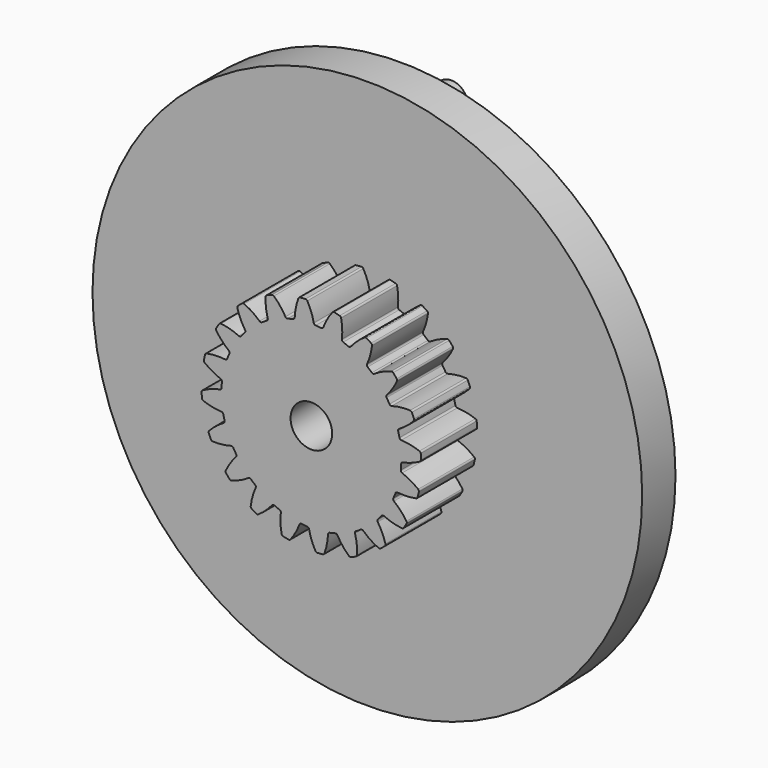
from build123d import *

# Parameters (mm, degrees)
F1_DEPTH = 4.2
F2_R     = 16.5
F3_DEPTH = 2.5
F4_R     = 1.25
F5_DEPTH = 25
F6_R     = 1
F7_DEPTH = 3.8


with BuildPart() as f1:
    # F0 (on Front) → F1 (new body)
    with BuildSketch(Plane.XZ):
        with BuildLine():
            ThreePointArc((0.144161, 5.489757), (-0.009039, 6.024555), (-0.242805, 6.529365))
            ThreePointArc((-0.242805, 6.529365), (-0.289621, 6.57581), (-0.353909, 6.590504))
            ThreePointArc((-0.353909, 6.590504), (-0.51783, 6.579654), (-0.68143, 6.564728))
            ThreePointArc((-0.68143, 6.564728), (-0.742628, 6.540158), (-0.781602, 6.486961))
            ThreePointArc((-0.781602, 6.486961), (-0.933521, 5.951797), (-1.001174, 5.399617))
            ThreePointArc((-1.001174, 5.399617), (-1.029694, 5.327161), (-1.096684, 5.287465))
            ThreePointArc((-1.096684, 5.287465), (-1.260605, 5.250798), (-1.423306, 5.20905))
            ThreePointArc((-1.423306, 5.20905), (-2.066491, 4.988949), (-2.676925, 4.689784))
            ThreePointArc((-2.676925, 4.689784), (-2.821492, 4.604257), (-2.96333, 4.514275))
            ThreePointArc((-2.96333, 4.514275), (-3.507019, 4.106192), (-3.99513, 3.633034))
            ThreePointArc((-3.99513, 3.633034), (-4.106192, 3.507019), (-4.213282, 3.377611))
            ThreePointArc((-4.213282, 3.377611), (-4.604257, 2.821492), (-4.922264, 2.220658))
            ThreePointArc((-4.922264, 2.220658), (-4.988949, 2.066491), (-5.050808, 1.910324))
            ThreePointArc((-5.050808, 1.910324), (-5.250798, 1.260605), (-5.367572, 0.590908))
            ThreePointArc((-5.367572, 0.590908), (-5.383354, 0.423679), (-5.393927, 0.25604))
            ThreePointArc((-5.393927, 0.25604), (-5.383354, -0.423679), (-5.287465, -1.096684))
            ThreePointArc((-5.287465, -1.096684), (-5.250798, -1.260605), (-5.20905, -1.423306))
            ThreePointArc((-5.20905, -1.423306), (-4.988949, -2.066491), (-4.689784, -2.676925))
            ThreePointArc((-4.689784, -2.676925), (-4.604257, -2.821492), (-4.514275, -2.96333))
            ThreePointArc((-4.514275, -2.96333), (-4.106192, -3.507019), (-3.633034, -3.99513))
            ThreePointArc((-3.633034, -3.99513), (-3.507019, -4.106192), (-3.377611, -4.213282))
            ThreePointArc((-3.377611, -4.213282), (-2.821492, -4.604257), (-2.220658, -4.922264))
            ThreePointArc((-2.220658, -4.922264), (-2.066491, -4.988949), (-1.910324, -5.050808))
            ThreePointArc((-1.910324, -5.050808), (-1.260605, -5.250798), (-0.590908, -5.367572))
            ThreePointArc((-0.590908, -5.367572), (-0.423679, -5.383354), (-0.25604, -5.393927))
            ThreePointArc((-0.25604, -5.393927), (0.423679, -5.383354), (1.096684, -5.287465))
            ThreePointArc((1.096684, -5.287465), (1.260605, -5.250798), (1.423306, -5.20905))
            ThreePointArc((1.423306, -5.20905), (2.066491, -4.988949), (2.676925, -4.689784))
            ThreePointArc((2.676925, -4.689784), (2.821492, -4.604257), (2.96333, -4.514275))
            ThreePointArc((2.96333, -4.514275), (3.507019, -4.106192), (3.99513, -3.633034))
            ThreePointArc((3.99513, -3.633034), (4.106192, -3.507019), (4.213282, -3.377611))
            ThreePointArc((4.213282, -3.377611), (4.604257, -2.821492), (4.922264, -2.220658))
            ThreePointArc((4.922264, -2.220658), (4.988949, -2.066491), (5.050808, -1.910324))
            ThreePointArc((5.050808, -1.910324), (5.250798, -1.260605), (5.367572, -0.590908))
            ThreePointArc((5.367572, -0.590908), (5.383354, -0.423679), (5.393927, -0.25604))
            ThreePointArc((5.393927, -0.25604), (5.383354, 0.423679), (5.287465, 1.096684))
            ThreePointArc((5.287465, 1.096684), (5.250798, 1.260605), (5.20905, 1.423306))
            ThreePointArc((5.20905, 1.423306), (4.988949, 2.066491), (4.689784, 2.676925))
            ThreePointArc((4.689784, 2.676925), (4.604257, 2.821492), (4.514275, 2.96333))
            ThreePointArc((4.514275, 2.96333), (4.106192, 3.507019), (3.633034, 3.99513))
            ThreePointArc((3.633034, 3.99513), (3.507019, 4.106192), (3.377611, 4.213282))
            ThreePointArc((3.377611, 4.213282), (2.821492, 4.604257), (2.220658, 4.922264))
            ThreePointArc((2.220658, 4.922264), (2.066491, 4.988949), (1.910324, 5.050808))
            ThreePointArc((1.910324, 5.050808), (1.260605, 5.250798), (0.590908, 5.367572))
            ThreePointArc((0.590908, 5.367572), (0.423679, 5.383354), (0.25604, 5.393927))
            ThreePointArc((0.25604, 5.393927), (0.183666, 5.422654), (0.144161, 5.489757))
        make_face()
        with BuildLine():
            ThreePointArc((0.716401, 5.444721), (0.666886, 5.384624), (0.590908, 5.367572))
            ThreePointArc((0.590908, 5.367572), (1.260605, 5.250798), (1.910324, 5.050808))
            ThreePointArc((1.910324, 5.050808), (1.850369, 5.100495), (1.833534, 5.176521))
            ThreePointArc((1.833534, 5.176521), (1.853094, 5.732486), (1.786764, 6.284826))
            ThreePointArc((1.786764, 6.284826), (1.756591, 6.343465), (1.69999, 6.377306))
            ThreePointArc((1.69999, 6.377306), (1.540739, 6.417641), (1.380534, 6.454001))
            ThreePointArc((1.380534, 6.454001), (1.314739, 6.449544), (1.261233, 6.410995))
            ThreePointArc((1.261233, 6.410995), (0.951375, 5.948969), (0.716401, 5.444721))
        make_face()
        with BuildLine():
            ThreePointArc((2.363849, 4.956857), (2.298186, 4.915003), (2.220658, 4.922264))
            ThreePointArc((2.220658, 4.922264), (2.821492, 4.604257), (3.377611, 4.213282))
            ThreePointArc((3.377611, 4.213282), (3.335945, 4.279064), (3.343427, 4.356571))
            ThreePointArc((3.343427, 4.356571), (3.533832, 4.87928), (3.641431, 5.425084))
            ThreePointArc((3.641431, 5.425084), (3.630856, 5.490177), (3.587483, 5.539853))
            ThreePointArc((3.587483, 5.539853), (3.448491, 5.627425), (3.307362, 5.711511))
            ThreePointArc((3.307362, 5.711511), (3.24341, 5.727605), (3.18061, 5.707476))
            ThreePointArc((3.18061, 5.707476), (2.743144, 5.363815), (2.363849, 4.956857))
        make_face()
        with BuildLine():
            ThreePointArc((-2.676925, 4.689784), (-2.066491, 4.988949), (-1.423306, 5.20905))
            ThreePointArc((-1.423306, 5.20905), (-1.501016, 5.214007), (-1.559323, 5.265618))
            ThreePointArc((-1.559323, 5.265618), (-1.870286, 5.7269), (-2.248606, 6.134764))
            ThreePointArc((-2.248606, 6.134764), (-2.307483, 6.164469), (-2.373166, 6.158578))
            ThreePointArc((-2.373166, 6.158578), (-2.525711, 6.097605), (-2.676691, 6.032854))
            ThreePointArc((-2.676691, 6.032854), (-2.727301, 5.990575), (-2.747929, 5.927938))
            ThreePointArc((-2.747929, 5.927938), (-2.727037, 5.372022), (-2.620746, 4.825962))
            ThreePointArc((-2.620746, 4.825962), (-2.625481, 4.748238), (-2.676925, 4.689784))
        make_face()
        with BuildLine():
            ThreePointArc((3.779907, 3.983782), (3.704525, 3.964267), (3.633034, 3.99513))
            ThreePointArc((3.633034, 3.99513), (4.106192, 3.507019), (4.514275, 2.96333))
            ThreePointArc((4.514275, 2.96333), (4.494976, 3.038768), (4.526043, 3.110169))
            ThreePointArc((4.526043, 3.110169), (4.868655, 3.548457), (5.13965, 4.034298))
            ThreePointArc((5.13965, 4.034298), (5.149707, 4.099473), (5.123807, 4.16012))
            ThreePointArc((5.123807, 4.16012), (5.018679, 4.286357), (4.910442, 4.409939))
            ThreePointArc((4.910442, 4.409939), (4.854593, 4.445007), (4.788647, 4.445269))
            ThreePointArc((4.788647, 4.445269), (4.266395, 4.253613), (3.779907, 3.983782))
        make_face()
        with BuildLine():
            ThreePointArc((-3.99513, 3.633034), (-3.507019, 4.106192), (-2.96333, 4.514275))
            ThreePointArc((-2.96333, 4.514275), (-3.038768, 4.494976), (-3.110169, 4.526043))
            ThreePointArc((-3.110169, 4.526043), (-3.548457, 4.868655), (-4.034298, 5.13965))
            ThreePointArc((-4.034298, 5.13965), (-4.099473, 5.149707), (-4.16012, 5.123807))
            ThreePointArc((-4.16012, 5.123807), (-4.286357, 5.018679), (-4.409939, 4.910442))
            ThreePointArc((-4.409939, 4.910442), (-4.445007, 4.854593), (-4.445269, 4.788647))
            ThreePointArc((-4.445269, 4.788647), (-4.253613, 4.266395), (-3.983782, 3.779907))
            ThreePointArc((-3.983782, 3.779907), (-3.964267, 3.704525), (-3.99513, 3.633034))
        make_face()
        with BuildLine():
            ThreePointArc((4.825962, 2.620746), (4.748238, 2.625481), (4.689784, 2.676925))
            ThreePointArc((4.689784, 2.676925), (4.988949, 2.066491), (5.20905, 1.423306))
            ThreePointArc((5.20905, 1.423306), (5.214007, 1.501016), (5.265618, 1.559323))
            ThreePointArc((5.265618, 1.559323), (5.7269, 1.870286), (6.134764, 2.248606))
            ThreePointArc((6.134764, 2.248606), (6.164469, 2.307483), (6.158578, 2.373166))
            ThreePointArc((6.158578, 2.373166), (6.097605, 2.525711), (6.032854, 2.676691))
            ThreePointArc((6.032854, 2.676691), (5.990575, 2.727301), (5.927938, 2.747929))
            ThreePointArc((5.927938, 2.747929), (5.372022, 2.727037), (4.825962, 2.620746))
        make_face()
        with BuildLine():
            ThreePointArc((-4.922264, 2.220658), (-4.604257, 2.821492), (-4.213282, 3.377611))
            ThreePointArc((-4.213282, 3.377611), (-4.279064, 3.335945), (-4.356571, 3.343427))
            ThreePointArc((-4.356571, 3.343427), (-4.87928, 3.533832), (-5.425084, 3.641431))
            ThreePointArc((-5.425084, 3.641431), (-5.490177, 3.630856), (-5.539853, 3.587483))
            ThreePointArc((-5.539853, 3.587483), (-5.627425, 3.448491), (-5.711511, 3.307362))
            ThreePointArc((-5.711511, 3.307362), (-5.727605, 3.24341), (-5.707476, 3.18061))
            ThreePointArc((-5.707476, 3.18061), (-5.363815, 2.743144), (-4.956857, 2.363849))
            ThreePointArc((-4.956857, 2.363849), (-4.915003, 2.298186), (-4.922264, 2.220658))
        make_face()
        with BuildLine():
            ThreePointArc((5.399617, 1.001174), (5.327161, 1.029694), (5.287465, 1.096684))
            ThreePointArc((5.287465, 1.096684), (5.383354, 0.423679), (5.393927, -0.25604))
            ThreePointArc((5.393927, -0.25604), (5.422654, -0.183666), (5.489757, -0.144161))
            ThreePointArc((5.489757, -0.144161), (6.024555, 0.009039), (6.529365, 0.242805))
            ThreePointArc((6.529365, 0.242805), (6.57581, 0.289621), (6.590504, 0.353909))
            ThreePointArc((6.590504, 0.353909), (6.579654, 0.51783), (6.564728, 0.68143))
            ThreePointArc((6.564728, 0.68143), (6.540158, 0.742628), (6.486961, 0.781602))
            ThreePointArc((6.486961, 0.781602), (5.951797, 0.933521), (5.399617, 1.001174))
        make_face()
        with BuildLine():
            ThreePointArc((-5.367572, 0.590908), (-5.250798, 1.260605), (-5.050808, 1.910324))
            ThreePointArc((-5.050808, 1.910324), (-5.100495, 1.850369), (-5.176521, 1.833534))
            ThreePointArc((-5.176521, 1.833534), (-5.732486, 1.853094), (-6.284826, 1.786764))
            ThreePointArc((-6.284826, 1.786764), (-6.343465, 1.756591), (-6.377306, 1.69999))
            ThreePointArc((-6.377306, 1.69999), (-6.417641, 1.540739), (-6.454001, 1.380534))
            ThreePointArc((-6.454001, 1.380534), (-6.449544, 1.314739), (-6.410995, 1.261233))
            ThreePointArc((-6.410995, 1.261233), (-5.948969, 0.951375), (-5.444721, 0.716401))
            ThreePointArc((-5.444721, 0.716401), (-5.384624, 0.666886), (-5.367572, 0.590908))
        make_face()
        with BuildLine():
            ThreePointArc((5.444721, -0.716401), (5.384624, -0.666886), (5.367572, -0.590908))
            ThreePointArc((5.367572, -0.590908), (5.250798, -1.260605), (5.050808, -1.910324))
            ThreePointArc((5.050808, -1.910324), (5.100495, -1.850369), (5.176521, -1.833534))
            ThreePointArc((5.176521, -1.833534), (5.732486, -1.853094), (6.284826, -1.786764))
            ThreePointArc((6.284826, -1.786764), (6.343465, -1.756591), (6.377306, -1.69999))
            ThreePointArc((6.377306, -1.69999), (6.417641, -1.540739), (6.454001, -1.380534))
            ThreePointArc((6.454001, -1.380534), (6.449544, -1.314739), (6.410995, -1.261233))
            ThreePointArc((6.410995, -1.261233), (5.948969, -0.951375), (5.444721, -0.716401))
        make_face()
        with BuildLine():
            ThreePointArc((-5.287465, -1.096684), (-5.383354, -0.423679), (-5.393927, 0.25604))
            ThreePointArc((-5.393927, 0.25604), (-5.422654, 0.183666), (-5.489757, 0.144161))
            ThreePointArc((-5.489757, 0.144161), (-6.024555, -0.009039), (-6.529365, -0.242805))
            ThreePointArc((-6.529365, -0.242805), (-6.57581, -0.289621), (-6.590504, -0.353909))
            ThreePointArc((-6.590504, -0.353909), (-6.579654, -0.51783), (-6.564728, -0.68143))
            ThreePointArc((-6.564728, -0.68143), (-6.540158, -0.742628), (-6.486961, -0.781602))
            ThreePointArc((-6.486961, -0.781602), (-5.951797, -0.933521), (-5.399617, -1.001174))
            ThreePointArc((-5.399617, -1.001174), (-5.327161, -1.029694), (-5.287465, -1.096684))
        make_face()
        with BuildLine():
            ThreePointArc((4.956857, -2.363849), (4.915003, -2.298186), (4.922264, -2.220658))
            ThreePointArc((4.922264, -2.220658), (4.604257, -2.821492), (4.213282, -3.377611))
            ThreePointArc((4.213282, -3.377611), (4.279064, -3.335945), (4.356571, -3.343427))
            ThreePointArc((4.356571, -3.343427), (4.87928, -3.533832), (5.425084, -3.641431))
            ThreePointArc((5.425084, -3.641431), (5.490177, -3.630856), (5.539853, -3.587483))
            ThreePointArc((5.539853, -3.587483), (5.627425, -3.448491), (5.711511, -3.307362))
            ThreePointArc((5.711511, -3.307362), (5.727605, -3.24341), (5.707476, -3.18061))
            ThreePointArc((5.707476, -3.18061), (5.363815, -2.743144), (4.956857, -2.363849))
        make_face()
        with BuildLine():
            ThreePointArc((-4.689784, -2.676925), (-4.988949, -2.066491), (-5.20905, -1.423306))
            ThreePointArc((-5.20905, -1.423306), (-5.214007, -1.501016), (-5.265618, -1.559323))
            ThreePointArc((-5.265618, -1.559323), (-5.7269, -1.870286), (-6.134764, -2.248606))
            ThreePointArc((-6.134764, -2.248606), (-6.164469, -2.307483), (-6.158578, -2.373166))
            ThreePointArc((-6.158578, -2.373166), (-6.097605, -2.525711), (-6.032854, -2.676691))
            ThreePointArc((-6.032854, -2.676691), (-5.990575, -2.727301), (-5.927938, -2.747929))
            ThreePointArc((-5.927938, -2.747929), (-5.372022, -2.727037), (-4.825962, -2.620746))
            ThreePointArc((-4.825962, -2.620746), (-4.748238, -2.625481), (-4.689784, -2.676925))
        make_face()
        with BuildLine():
            ThreePointArc((3.983782, -3.779907), (3.964267, -3.704525), (3.99513, -3.633034))
            ThreePointArc((3.99513, -3.633034), (3.507019, -4.106192), (2.96333, -4.514275))
            ThreePointArc((2.96333, -4.514275), (3.038768, -4.494976), (3.110169, -4.526043))
            ThreePointArc((3.110169, -4.526043), (3.548457, -4.868655), (4.034298, -5.13965))
            ThreePointArc((4.034298, -5.13965), (4.099473, -5.149707), (4.16012, -5.123807))
            ThreePointArc((4.16012, -5.123807), (4.286357, -5.018679), (4.409939, -4.910442))
            ThreePointArc((4.409939, -4.910442), (4.445007, -4.854593), (4.445269, -4.788647))
            ThreePointArc((4.445269, -4.788647), (4.253613, -4.266395), (3.983782, -3.779907))
        make_face()
        with BuildLine():
            ThreePointArc((-3.633034, -3.99513), (-4.106192, -3.507019), (-4.514275, -2.96333))
            ThreePointArc((-4.514275, -2.96333), (-4.494976, -3.038768), (-4.526043, -3.110169))
            ThreePointArc((-4.526043, -3.110169), (-4.868655, -3.548457), (-5.13965, -4.034298))
            ThreePointArc((-5.13965, -4.034298), (-5.149707, -4.099473), (-5.123807, -4.16012))
            ThreePointArc((-5.123807, -4.16012), (-5.018679, -4.286357), (-4.910442, -4.409939))
            ThreePointArc((-4.910442, -4.409939), (-4.854593, -4.445007), (-4.788647, -4.445269))
            ThreePointArc((-4.788647, -4.445269), (-4.266395, -4.253613), (-3.779907, -3.983782))
            ThreePointArc((-3.779907, -3.983782), (-3.704525, -3.964267), (-3.633034, -3.99513))
        make_face()
        with BuildLine():
            ThreePointArc((2.620746, -4.825962), (2.625481, -4.748238), (2.676925, -4.689784))
            ThreePointArc((2.676925, -4.689784), (2.066491, -4.988949), (1.423306, -5.20905))
            ThreePointArc((1.423306, -5.20905), (1.501016, -5.214007), (1.559323, -5.265618))
            ThreePointArc((1.559323, -5.265618), (1.870286, -5.7269), (2.248606, -6.134764))
            ThreePointArc((2.248606, -6.134764), (2.307483, -6.164469), (2.373166, -6.158578))
            ThreePointArc((2.373166, -6.158578), (2.525711, -6.097605), (2.676691, -6.032854))
            ThreePointArc((2.676691, -6.032854), (2.727301, -5.990575), (2.747929, -5.927938))
            ThreePointArc((2.747929, -5.927938), (2.727037, -5.372022), (2.620746, -4.825962))
        make_face()
        with BuildLine():
            ThreePointArc((-2.220658, -4.922264), (-2.821492, -4.604257), (-3.377611, -4.213282))
            ThreePointArc((-3.377611, -4.213282), (-3.335945, -4.279064), (-3.343427, -4.356571))
            ThreePointArc((-3.343427, -4.356571), (-3.533832, -4.87928), (-3.641431, -5.425084))
            ThreePointArc((-3.641431, -5.425084), (-3.630856, -5.490177), (-3.587483, -5.539853))
            ThreePointArc((-3.587483, -5.539853), (-3.448491, -5.627425), (-3.307362, -5.711511))
            ThreePointArc((-3.307362, -5.711511), (-3.24341, -5.727605), (-3.18061, -5.707476))
            ThreePointArc((-3.18061, -5.707476), (-2.743144, -5.363815), (-2.363849, -4.956857))
            ThreePointArc((-2.363849, -4.956857), (-2.298186, -4.915003), (-2.220658, -4.922264))
        make_face()
        with BuildLine():
            ThreePointArc((1.001174, -5.399617), (1.029694, -5.327161), (1.096684, -5.287465))
            ThreePointArc((1.096684, -5.287465), (0.423679, -5.383354), (-0.25604, -5.393927))
            ThreePointArc((-0.25604, -5.393927), (-0.183666, -5.422654), (-0.144161, -5.489757))
            ThreePointArc((-0.144161, -5.489757), (0.009039, -6.024555), (0.242805, -6.529365))
            ThreePointArc((0.242805, -6.529365), (0.289621, -6.57581), (0.353909, -6.590504))
            ThreePointArc((0.353909, -6.590504), (0.51783, -6.579654), (0.68143, -6.564728))
            ThreePointArc((0.68143, -6.564728), (0.742628, -6.540158), (0.781602, -6.486961))
            ThreePointArc((0.781602, -6.486961), (0.933521, -5.951797), (1.001174, -5.399617))
        make_face()
        with BuildLine():
            ThreePointArc((-0.590908, -5.367572), (-1.260605, -5.250798), (-1.910324, -5.050808))
            ThreePointArc((-1.910324, -5.050808), (-1.850369, -5.100495), (-1.833534, -5.176521))
            ThreePointArc((-1.833534, -5.176521), (-1.853094, -5.732486), (-1.786764, -6.284826))
            ThreePointArc((-1.786764, -6.284826), (-1.756591, -6.343465), (-1.69999, -6.377306))
            ThreePointArc((-1.69999, -6.377306), (-1.540739, -6.417641), (-1.380534, -6.454001))
            ThreePointArc((-1.380534, -6.454001), (-1.314739, -6.449544), (-1.261233, -6.410995))
            ThreePointArc((-1.261233, -6.410995), (-0.951375, -5.948969), (-0.716401, -5.444721))
            ThreePointArc((-0.716401, -5.444721), (-0.666886, -5.384624), (-0.590908, -5.367572))
        make_face()
    extrude(amount=F1_DEPTH)

    # F2 (on Front) → F3 (join)
    with BuildSketch(Plane.XZ):
        Circle(F2_R)
    extrude(amount=-F3_DEPTH)

    # F4 (on face) → F5 (cut)
    with BuildSketch(Plane.XZ.offset(4.2)):
        Circle(F4_R)
    extrude(amount=-F5_DEPTH, mode=Mode.SUBTRACT)

    # F6 (on face) → F7 (join)
    with BuildSketch(Plane(origin=(0, 2.5, 0), x_dir=(-1, 0, 0), z_dir=(0, 1, 0))):
        with Locations((0, 13)):
            Circle(F6_R)
        with Locations((-11.25833, -6.5)):
            Circle(F6_R)
        with Locations((11.25833, -6.5)):
            Circle(F6_R)
    extrude(amount=F7_DEPTH)


solid = f1.part
